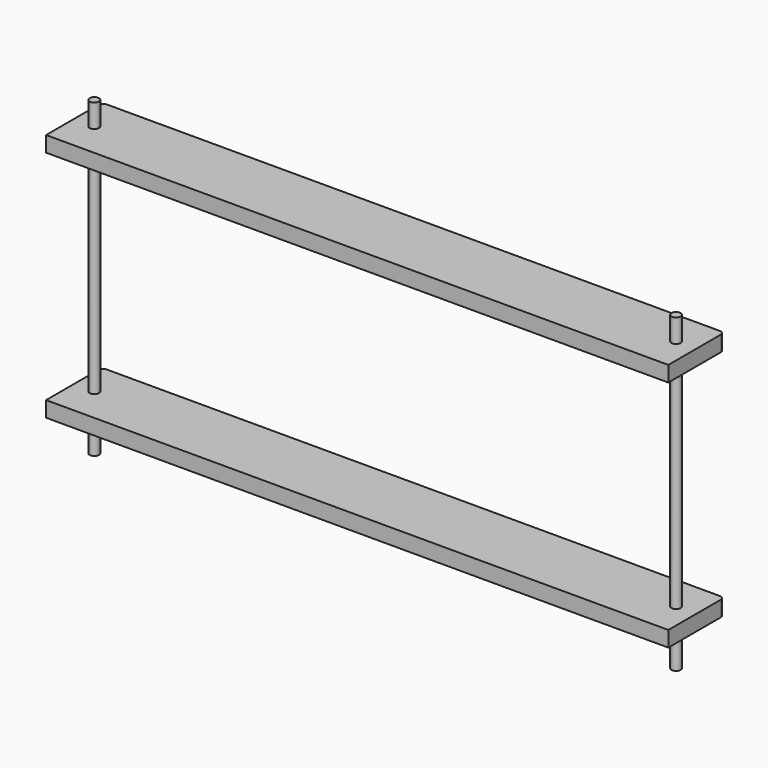
from build123d import *

# Parameters (mm, degrees)
F0_R          = 3
F1_DEPTH      = 10
F3_DEPTH      = 175
F3_DEPTH_BACK = 25


with BuildPart() as f1:
    # F0 (on Top) → F1 (new body)
    with BuildSketch(Plane.XY):
        with BuildLine():
            Line((30, 72), (30, 30))
            Line((30, 30), (430, 30))
            Line((430, 30), (430, 72))
            ThreePointArc((430, 72), (429.12132, 74.12132), (427, 75))
            Line((427, 75), (33, 75))
            ThreePointArc((33, 75), (30.87868, 74.12132), (30, 72))
        make_face()
        with Locations((43, 52.5)):
            Circle(F0_R, mode=Mode.SUBTRACT)
        with Locations((417, 52.5)):
            Circle(F0_R, mode=Mode.SUBTRACT)
        with BuildLine():
            Line((30, 72), (30, 30))
            Line((30, 30), (430, 30))
            Line((430, 30), (430, 72))
            ThreePointArc((430, 72), (429.12132, 74.12132), (427, 75))
            Line((427, 75), (33, 75))
            ThreePointArc((33, 75), (30.87868, 74.12132), (30, 72))
        make_face()
        with Locations((43, 52.5)):
            Circle(F0_R, mode=Mode.SUBTRACT)
        with Locations((417, 52.5)):
            Circle(F0_R, mode=Mode.SUBTRACT)
    extrude(amount=F1_DEPTH)


with BuildPart() as f2_1:
    # F2: copy of F1
    add(f1.part.moved(Location((0, 0, 150))))


with BuildPart() as f3:
    # F0 (on Top) → F3 (new body, two sides)
    with BuildSketch(Plane.XY) as f3_sk:
        with Locations((417, 52.5)):
            Circle(F0_R)
        with Locations((43, 52.5)):
            Circle(F0_R)
    extrude(amount=F3_DEPTH)
    extrude(f3_sk.sketch, amount=-F3_DEPTH_BACK)


solid = Compound([f1.part, f2_1.part, f3.part])
